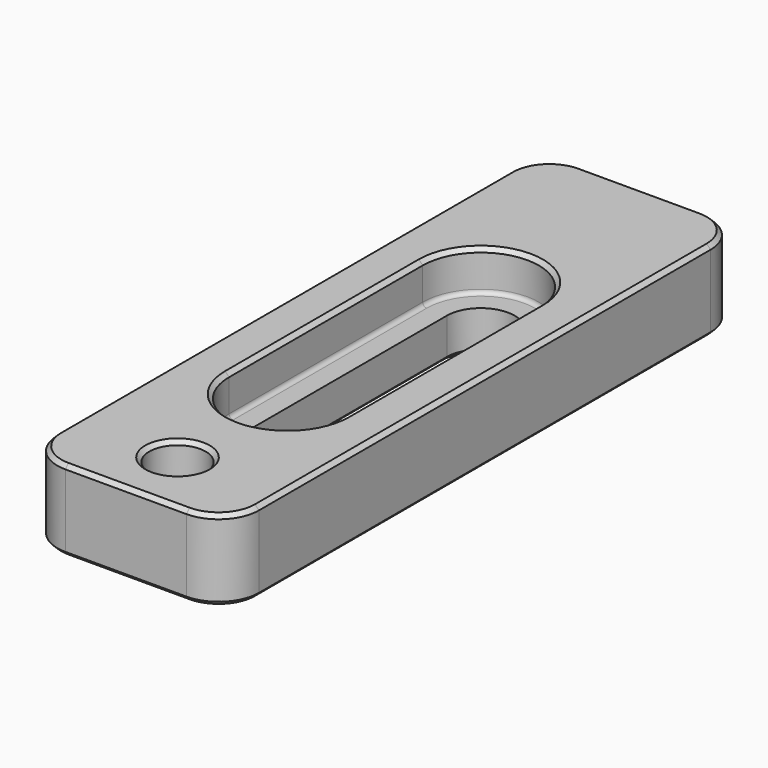
from build123d import *

# Parameters (mm, degrees)
F0_W     = 25
F0_H     = 80
F0_R     = 3.5
F1_DEPTH = 10
F3_DEPTH = 5
F4_R     = 5
F5_SIZE  = 0.5
F6_R     = 0.5


with BuildPart() as f1:
    # F0 (on Top) → F1 (new body)
    with BuildSketch(Plane.XY):
        Rectangle(F0_W, F0_H)
        with Locations((0, -32)):
            Circle(F0_R, mode=Mode.SUBTRACT)
        with BuildLine():
            ThreePointArc((-4.2, 15), (0, 19.2), (4.2, 15))
            Line((4.2, 15), (4.2, -15))
            ThreePointArc((4.2, -15), (0, -19.2), (-4.2, -15))
            Line((-4.2, -15), (-4.2, 15))
        make_face(mode=Mode.SUBTRACT)
    extrude(amount=F1_DEPTH)

    # F2 (on face) → F3 (cut)
    with BuildSketch(Plane.XY.offset(10)):
        with BuildLine():
            Line((7.2, -15), (7.2, 15))
            ThreePointArc((7.2, 15), (0, 22.2), (-7.2, 15))
            Line((-7.2, 15), (-7.2, -15))
            ThreePointArc((-7.2, -15), (0, -22.2), (7.2, -15))
        make_face()
        with BuildLine():
            ThreePointArc((-4.2, 15), (0, 19.2), (4.2, 15))
            Line((4.2, 15), (4.2, -15))
            ThreePointArc((4.2, -15), (0, -19.2), (-4.2, -15))
            Line((-4.2, -15), (-4.2, 15))
        make_face(mode=Mode.SUBTRACT)
    extrude(amount=-F3_DEPTH, mode=Mode.SUBTRACT)

    # F4
    f4_edges = [f1.edges().sort_by_distance(p)[0] for p in [
        (12.5, 40, 5),
        (-12.5, -40, 5),
        (12.5, -40, 5),
        (-12.5, 40, 5),
    ]]
    fillet(f4_edges, radius=F4_R)

    # F5
    f5_edges = [f1.edges().sort_by_distance(p)[0] for p in [
        (0, 40, 10),
        (11.035534, 38.535534, 10),
        (-11.035534, 38.535534, 10),
        (12.5, 0, 10),
        (-12.5, 0, 10),
        (11.035534, -38.535534, 10),
        (-11.035534, -38.535534, 10),
        (0, -40, 10),
        (-3.5, -32, 10),
        (0, -22.2, 10),
        (7.2, 0, 10),
        (0, 22.2, 10),
        (-7.2, 0, 10),
        (0, 40, 0),
        (11.035534, 38.535534, 0),
        (-11.035534, 38.535534, 0),
        (12.5, 0, 0),
        (-12.5, 0, 0),
        (11.035534, -38.535534, 0),
        (-11.035534, -38.535534, 0),
        (0, -40, 0),
        (-3.5, -32, 0),
        (0, -19.2, 0),
        (-4.2, 0, 0),
        (0, 19.2, 0),
        (4.2, 0, 0),
    ]]
    chamfer(f5_edges, length=F5_SIZE)

    # F6
    f6_edges = [f1.edges().sort_by_distance(p)[0] for p in [
        (0, 22.2, 5),
    ]]
    fillet(f6_edges, radius=F6_R)


solid = f1.part
